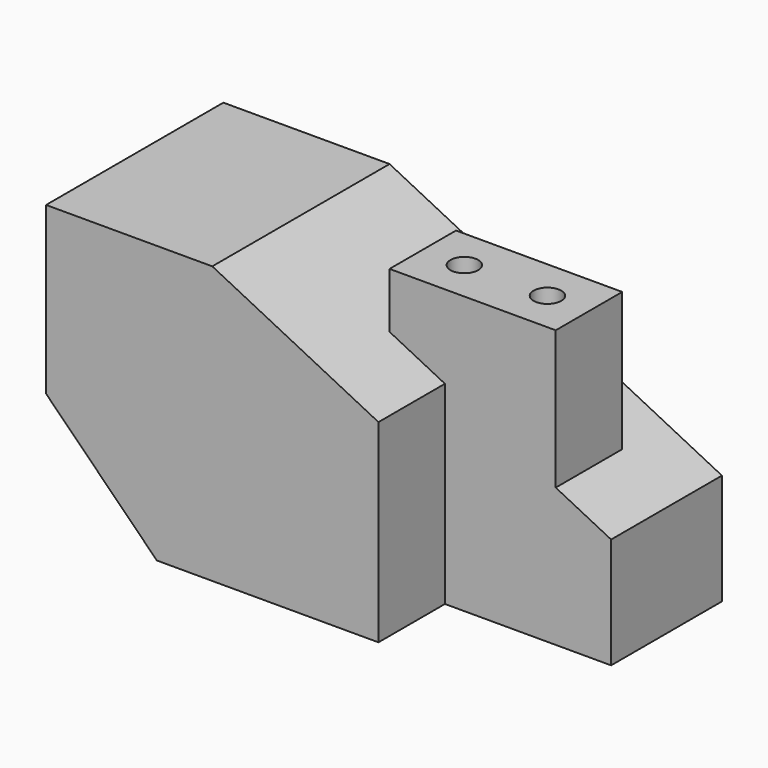
from build123d import *

# Parameters (mm, degrees)
F1_DEPTH = 50.8
F2_DEPTH = 31.75
F4_DEPTH = 19.05
F5_R     = 3.175
F6_DEPTH = 63.501


with BuildPart() as f1:
    # F0 (on Front) → F1 (new body)
    with BuildSketch(Plane.XZ):
        Polygon((0, 25.4), (25.4, 0), (63.5, 0), (63.5, 50.8), (38.1, 63.5), (0, 63.5), align=None)
        Polygon((63.5, 50.8), (63.5, 0), (76.2, 0), (76.2, 44.45), align=None)
    extrude(amount=F1_DEPTH)

    # F0 (on Front) → F2 (join)
    with BuildSketch(Plane.XZ):
        Polygon((76.2, 44.45), (76.2, 0), (101.6, 0), (101.6, 31.75), align=None)
        Polygon((101.6, 31.75), (101.6, 0), (114.3, 0), (114.3, 25.4), align=None)
    extrude(amount=F2_DEPTH)

    # F3 (on face) → F4 (join)
    with BuildSketch(Plane.XZ.offset(31.75)):
        Polygon((101.6, 31.75), (101.6, 63.5), (63.5, 63.5), (63.5, 50.8), align=None)
    extrude(amount=-F4_DEPTH)

    # F5 (on face) → F6 (cut, through all)
    with BuildSketch(Plane.XY.offset(63.5)):
        with Locations((73.025, -22.225)):
            Circle(F5_R)
        with Locations((92.075, -22.225)):
            Circle(F5_R)
    extrude(amount=-F6_DEPTH, mode=Mode.SUBTRACT)


solid = f1.part
